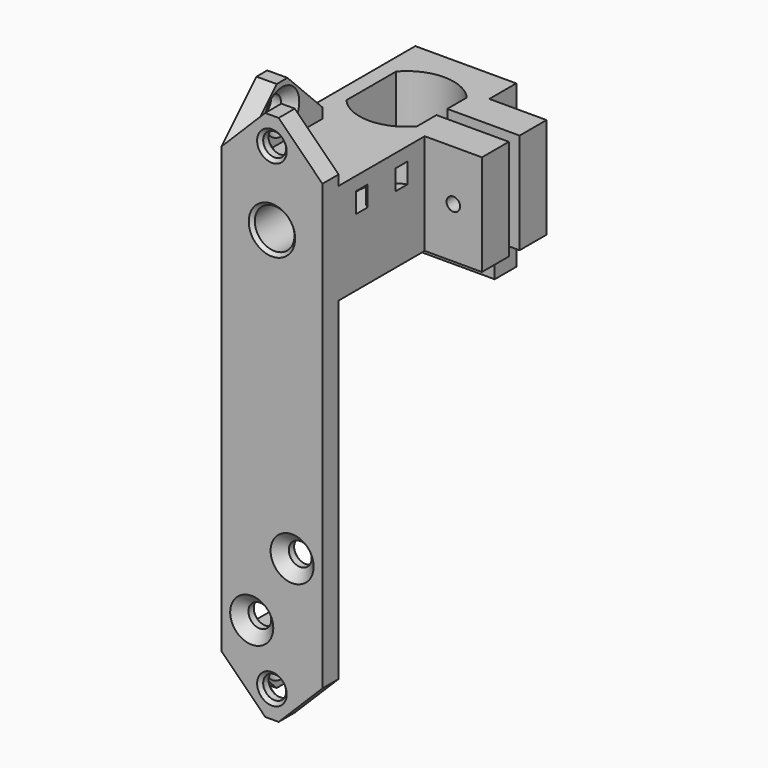
from build123d import *

# Parameters (mm, degrees)
CYLINDER102_R               = 1.7
CYLINDER102_DEPTH           = 21
BOX406008019_W              = 15
BOX406008019_H              = 3
BOX406008019_DEPTH          = 8
CHAMFER011_SIZE             = 6.5
CHAMFER012_SIZE             = 1.5
CYLINDER103_R               = 1.7
CYLINDER103_DEPTH           = 21
BOX406008020_W              = 15
BOX406008020_H              = 3
BOX406008020_DEPTH          = 8
CHAMFER013_SIZE             = 6.5
CHAMFER014_SIZE             = 1.5
CYLINDER101_R               = 2.95
CYLINDER101_DEPTH           = 20
CYLINDER100_R               = 1.4
CYLINDER100_DEPTH           = 28
CYLINDER099_R               = 3
CYLINDER099_DEPTH           = 3
CYLINDER098_R               = 5
CYLINDER098_DEPTH           = 3
CYLINDER090_R               = 1.2
CYLINDER090_DEPTH           = 13
CYLINDER091_R               = 1
CYLINDER091_DEPTH           = 12
CYLINDER091_ROLL_ANGLE      = 89.999919
CYLINDER091_PITCH_ANGLE     = -3.6e-05
CYLINDER091_PLACEMENT_ANGLE = 179.999964
CYLINDER069_R               = 2.2
CYLINDER069_DEPTH           = 12
CYLINDER069_ROLL_ANGLE      = 89.999919
CYLINDER069_PITCH_ANGLE     = -3.6e-05
CYLINDER069_PLACEMENT_ANGLE = 179.999964
CYLINDER068_R               = 1.2
CYLINDER068_DEPTH           = 12
CYLINDER068_ROLL_ANGLE      = 89.999919
CYLINDER068_PITCH_ANGLE     = -3.6e-05
CYLINDER068_PLACEMENT_ANGLE = 179.999964
BOX406016_W                 = 49
BOX406016_H                 = 2
BOX406016_DEPTH             = 32
BOX406008016_W              = 9
BOX406008016_H              = 12
BOX406008016_DEPTH          = 15
BOX406017_W                 = 16
BOX406017_H                 = 10.5
BOX406017_DEPTH             = 28
CYLINDER067_R               = 7
CYLINDER067_DEPTH           = 26
COMMON004_PLACEMENT_ANGLE   = 90
BOX406008015_W              = 15
BOX406008015_H              = 31
BOX406008015_DEPTH          = 15
BOX406008017_W              = 15
BOX406008017_H              = 4
BOX406008017_DEPTH          = 24
CYLINDER096_R               = 1.7
CYLINDER096_DEPTH           = 21
BOX_W                       = 15
BOX_H                       = 3
BOX_DEPTH                   = 8
CYLINDER097_R               = 1.7
CYLINDER097_DEPTH           = 21
BOX406008018_W              = 15
BOX406008018_H              = 3
BOX406008018_DEPTH          = 8
CHAMFER005_SIZE             = 1.5
CYLINDER093_R               = 1.7
CYLINDER093_DEPTH           = 21
CYLINDER092_R               = 1.7
CYLINDER092_DEPTH           = 21
BOX406008014_W              = 15
BOX406008014_H              = 3
BOX406008014_DEPTH          = 63
CHAMFER006_SIZE             = 1.5
CHAMFER007_SIZE             = 6.5
CHAMFER009_SIZE             = 0.5
CHAMFER010_SIZE             = 0.5
CHAMFER015_SIZE             = 0.5
CHAMFER016_SIZE             = 0.5


with BuildPart() as cylinder102:
    # Cylinder102 → Cylinder102 (new body)
    with BuildSketch(Plane(origin=(-15, -17.5, -22), x_dir=(0, 0, -1), z_dir=(1, 0, 0))):
        Circle(CYLINDER102_R)
    extrude(amount=CYLINDER102_DEPTH)


with BuildPart() as chamfer012_mount_hole:
    # Box406008019 → Box406008019 (new body)
    with BuildSketch(Plane(origin=(-4.5, -25, -26), x_dir=(0, 1, 0), z_dir=(0, 0, 1))):
        with Locations((7.5, 1.5)):
            Rectangle(BOX406008019_W, BOX406008019_H)
    extrude(amount=BOX406008019_DEPTH)

    # Cut083: cut Cylinder102
    add(cylinder102.part, mode=Mode.SUBTRACT)

    # Chamfer011
    chamfer011_edges = [chamfer012_mount_hole.edges().sort_by_distance(p)[0] for p in [
        (-6, -25, -26),
        (-6, -10, -26),
    ]]
    chamfer(chamfer011_edges, length=CHAMFER011_SIZE)

    # Chamfer012
    chamfer012_edges = [chamfer012_mount_hole.edges().sort_by_distance(p)[0] for p in [
        (-4.5, -17.5, -20.3),
    ]]
    chamfer(chamfer012_edges, length=CHAMFER012_SIZE)


with BuildPart() as cylinder103:
    # Cylinder103 → Cylinder103 (new body)
    with BuildSketch(Plane(origin=(-15, -17.5, -22), x_dir=(0, 0, -1), z_dir=(1, 0, 0))):
        Circle(CYLINDER103_R)
    extrude(amount=CYLINDER103_DEPTH)


with BuildPart() as chamfer012_mount_hole001:
    # Box406008020 → Box406008020 (new body)
    with BuildSketch(Plane(origin=(-4.5, -25, -26), x_dir=(0, 1, 0), z_dir=(0, 0, 1))):
        with Locations((7.5, 1.5)):
            Rectangle(BOX406008020_W, BOX406008020_H)
    extrude(amount=BOX406008020_DEPTH)

    # Cut084: cut Cylinder103
    add(cylinder103.part, mode=Mode.SUBTRACT)

    # Chamfer013
    chamfer013_edges = [chamfer012_mount_hole001.edges().sort_by_distance(p)[0] for p in [
        (-6, -25, -26),
        (-6, -10, -26),
    ]]
    chamfer(chamfer013_edges, length=CHAMFER013_SIZE)

    # Chamfer014
    chamfer014_edges = [chamfer012_mount_hole001.edges().sort_by_distance(p)[0] for p in [
        (-4.5, -17.5, -20.3),
    ]]
    chamfer(chamfer014_edges, length=CHAMFER014_SIZE)


with BuildPart() as fusion103077013004017019:
    # Part__Mirroring001: instance of Chamfer012 Mount Hole001
    add(chamfer012_mount_hole001.part.mirror(Plane(origin=(0, 0, 0), x_dir=(0, 1, 0), z_dir=(0, 0, 1))))


with BuildPart() as fusion103077013004017019_1:
    # Part__Mirroring001 placement: moved
    add(fusion103077013004017019.part.moved(Location((0, 0, 27))))

    # Fusion103077013004017019: union Chamfer012 Mount Hole
    add(chamfer012_mount_hole.part)


with BuildPart() as cylinder101:
    # Cylinder101 → Cylinder101 (new body)
    with BuildSketch(Plane(origin=(0, -11, 38), x_dir=(1, 0, 0), z_dir=(0, -1, 0))):
        Circle(CYLINDER101_R)
    extrude(amount=CYLINDER101_DEPTH)


with BuildPart() as fusion103077013004017018:
    # Cylinder100 → Cylinder100 (new body)
    with BuildSketch(Plane(origin=(0, 0, 38), x_dir=(1, 0, 0), z_dir=(0, -1, 0))):
        Circle(CYLINDER100_R)
    extrude(amount=CYLINDER100_DEPTH)

    # Fusion103077013004017018: union Cylinder101
    add(cylinder101.part)


with BuildPart() as cylinder099:
    # Cylinder099 → Cylinder099 (new body)
    with BuildSketch(Plane(origin=(-9, -9, 36), x_dir=(1, 0, 0), z_dir=(0, 0, 1))):
        Circle(CYLINDER099_R)
    extrude(amount=CYLINDER099_DEPTH)


with BuildPart() as cable_tie_hole:
    # Cylinder098 → Cylinder098 (new body)
    with BuildSketch(Plane(origin=(-9, -9, 36), x_dir=(1, 0, 0), z_dir=(0, 0, 1))):
        Circle(CYLINDER098_R)
    extrude(amount=CYLINDER098_DEPTH)

    # Cut081: cut Cylinder099
    add(cylinder099.part, mode=Mode.SUBTRACT)


with BuildPart() as cable_tie_hole_1:
    # Cut081 placement: moved
    add(cable_tie_hole.part.moved(Location((18, -5, 4))))


with BuildPart() as cylinder084:
    # Cylinder090 → Cylinder090 (new body)
    with BuildSketch(Plane(origin=(0, 16, 35.8), x_dir=(1, 0, 0), z_dir=(0, -1, 0))):
        Circle(CYLINDER090_R)
    extrude(amount=CYLINDER090_DEPTH)


with BuildPart() as cylinder091:
    # Cylinder091 → Cylinder091 (new body)
    with BuildSketch(Plane.XY):
        Circle(CYLINDER091_R)
    extrude(amount=CYLINDER091_DEPTH)


with BuildPart() as cylinder091_1:
    # Cylinder091 roll: moved
    add(cylinder091.part.rotate(Axis((0, 0, 0), (1, 0, 0)), CYLINDER091_ROLL_ANGLE))


with BuildPart() as cylinder091_2:
    # Cylinder091 pitch: moved
    add(cylinder091_1.part.rotate(Axis((0, 0, 0), (0, 1, 0)), CYLINDER091_PITCH_ANGLE))


with BuildPart() as cylinder091_3:
    # Cylinder091 placement: moved
    add(cylinder091_2.part.moved(Location((11.75, -12, 42.5))).rotate(Axis((11.75, -12, 42.5), (0, 0, 1)), CYLINDER091_PLACEMENT_ANGLE))


with BuildPart() as cylinder069:
    # Cylinder069 → Cylinder069 (new body)
    with BuildSketch(Plane.XY):
        Circle(CYLINDER069_R)
    extrude(amount=CYLINDER069_DEPTH)


with BuildPart() as cylinder069_1:
    # Cylinder069 roll: moved
    add(cylinder069.part.rotate(Axis((0, 0, 0), (1, 0, 0)), CYLINDER069_ROLL_ANGLE))


with BuildPart() as cylinder069_2:
    # Cylinder069 pitch: moved
    add(cylinder069_1.part.rotate(Axis((0, 0, 0), (0, 1, 0)), CYLINDER069_PITCH_ANGLE))


with BuildPart() as cylinder069_3:
    # Cylinder069 placement: moved
    add(cylinder069_2.part.moved(Location((11.75, 3, 42.5))).rotate(Axis((11.75, 3, 42.5), (0, 0, 1)), CYLINDER069_PLACEMENT_ANGLE))


with BuildPart() as fusion103077013004017011:
    # Cylinder068 → Cylinder068 (new body)
    with BuildSketch(Plane.XY):
        Circle(CYLINDER068_R)
    extrude(amount=CYLINDER068_DEPTH)


with BuildPart() as fusion103077013004017011_1:
    # Cylinder068 roll: moved
    add(fusion103077013004017011.part.rotate(Axis((0, 0, 0), (1, 0, 0)), CYLINDER068_ROLL_ANGLE))


with BuildPart() as fusion103077013004017011_2:
    # Cylinder068 pitch: moved
    add(fusion103077013004017011_1.part.rotate(Axis((0, 0, 0), (0, 1, 0)), CYLINDER068_PITCH_ANGLE))


with BuildPart() as fusion103077013004017011_3:
    # Cylinder068 placement: moved
    add(fusion103077013004017011_2.part.moved(Location((11.75, 0, 42.5))).rotate(Axis((11.75, 0, 42.5), (0, 0, 1)), CYLINDER068_PLACEMENT_ANGLE))

    # Fusion103077013: union Cylinder069
    add(cylinder069_3.part)

    # Fusion103077013004017011: union Cylinder091
    add(cylinder091_3.part)


with BuildPart() as clamp_slot:
    # Box406016 → Box406016 (new body)
    with BuildSketch(Plane(origin=(48.48, 1, 22), x_dir=(-1, 0, 0), z_dir=(0, 0, 1))):
        with Locations((24.5, 1)):
            Rectangle(BOX406016_W, BOX406016_H)
    extrude(amount=BOX406016_DEPTH)


with BuildPart() as cube351:
    # Box406008016 → Box406008016 (new body)
    with BuildSketch(Plane(origin=(7, -6, 35), x_dir=(1, 0, 0), z_dir=(0, 0, 1))):
        with Locations((4.5, 6)):
            Rectangle(BOX406008016_W, BOX406008016_H)
    extrude(amount=BOX406008016_DEPTH)


with BuildPart() as gearbox001:
    # Box406017 → Box406017 (new body)
    with BuildSketch(Plane(origin=(-8, -5.25, 18), x_dir=(1, 0, 0), z_dir=(0, 0, 1))):
        with Locations((8, 5.25)):
            Rectangle(BOX406017_W, BOX406017_H)
    extrude(amount=BOX406017_DEPTH)


with BuildPart() as motor_hole:
    # Cylinder067 → Cylinder067 (new body)
    with BuildSketch(Plane.XY.offset(20)):
        Circle(CYLINDER067_R)
    extrude(amount=CYLINDER067_DEPTH)

    # Common004: intersect gearbox001
    add(gearbox001.part, mode=Mode.INTERSECT)


with BuildPart() as motor_hole_1:
    # Common004 placement: moved
    add(motor_hole.part.moved(Location((0, 0, 5))).rotate(Axis((0, 0, 5), (0, 0, 1)), COMMON004_PLACEMENT_ANGLE))


with BuildPart() as cut075:
    # Box406008015 → Box406008015 (new body)
    with BuildSketch(Plane(origin=(-7.5, -22, 35), x_dir=(1, 0, 0), z_dir=(0, 0, 1))):
        with Locations((7.5, 15.5)):
            Rectangle(BOX406008015_W, BOX406008015_H)
    extrude(amount=BOX406008015_DEPTH)

    # Cut073: cut motor-hole
    add(motor_hole_1.part, mode=Mode.SUBTRACT)

    # Fusion103077013004017010: union Cube351
    add(cube351.part)

    # Cut074: cut clamp-slot
    add(clamp_slot.part, mode=Mode.SUBTRACT)

    # Cut075: cut Fusion103077013004017011
    add(fusion103077013004017011_3.part, mode=Mode.SUBTRACT)


with BuildPart() as cut082:
    # Box406008017 → Box406008017 (new body)
    with BuildSketch(Plane(origin=(-7.5, 7, 26), x_dir=(1, 0, 0), z_dir=(0, 0, 1))):
        with Locations((7.5, 2)):
            Rectangle(BOX406008017_W, BOX406008017_H)
    extrude(amount=BOX406008017_DEPTH)

    # Fusion103077013004017012: union Cut075
    add(cut075.part)

    # Cut076: cut Cylinder084
    add(cylinder084.part, mode=Mode.SUBTRACT)


with BuildPart() as cut082_1:
    # Cut076 placement: moved
    add(cut082.part.moved(Location((0, 0, -5))))

    # Cut082: cut Cable tie Hole
    add(cable_tie_hole_1.part, mode=Mode.SUBTRACT)


with BuildPart() as cylinder096:
    # Cylinder096 → Cylinder096 (new body)
    with BuildSketch(Plane(origin=(0, -13, 49), x_dir=(1, 0, 0), z_dir=(0, -1, 0))):
        Circle(CYLINDER096_R)
    extrude(amount=CYLINDER096_DEPTH)


with BuildPart() as cut080:
    # Box → Box (new body)
    with BuildSketch(Plane(origin=(-7.5, -25, 45), x_dir=(1, 0, 0), z_dir=(0, 0, 1))):
        with Locations((7.5, 1.5)):
            Rectangle(BOX_W, BOX_H)
    extrude(amount=BOX_DEPTH)

    # Cut080: cut Cylinder096
    add(cylinder096.part, mode=Mode.SUBTRACT)


with BuildPart() as cylinder097:
    # Cylinder097 → Cylinder097 (new body)
    with BuildSketch(Plane(origin=(0, -13, -22), x_dir=(1, 0, 0), z_dir=(0, -1, 0))):
        Circle(CYLINDER097_R)
    extrude(amount=CYLINDER097_DEPTH)


with BuildPart() as chamfer005_mount_holes:
    # Box406008018 → Box406008018 (new body)
    with BuildSketch(Plane(origin=(-7.5, -25, -26), x_dir=(1, 0, 0), z_dir=(0, 0, 1))):
        with Locations((7.5, 1.5)):
            Rectangle(BOX406008018_W, BOX406008018_H)
    extrude(amount=BOX406008018_DEPTH)

    # Cut079: cut Cylinder097
    add(cylinder097.part, mode=Mode.SUBTRACT)

    # Fusion103077013004017015: union Cut080
    add(cut080.part)

    # Chamfer005
    chamfer005_edges = [chamfer005_mount_holes.edges().sort_by_distance(p)[0] for p in [
        (-1.7, -22, -22),
        (-1.7, -22, 49),
    ]]
    chamfer(chamfer005_edges, length=CHAMFER005_SIZE)


with BuildPart() as cylinder093:
    # Cylinder093 → Cylinder093 (new body)
    with BuildSketch(Plane(origin=(3, -13, -4), x_dir=(1, 0, 0), z_dir=(0, -1, 0))):
        Circle(CYLINDER093_R)
    extrude(amount=CYLINDER093_DEPTH)


with BuildPart() as fusion103077013004017013:
    # Cylinder092 → Cylinder092 (new body)
    with BuildSketch(Plane(origin=(-3, -13, -14), x_dir=(1, 0, 0), z_dir=(0, -1, 0))):
        Circle(CYLINDER092_R)
    extrude(amount=CYLINDER092_DEPTH)

    # Fusion103077013004017013: union Cylinder093
    add(cylinder093.part)


with BuildPart() as chamfer016:
    # Box406008014 → Box406008014 (new body)
    with BuildSketch(Plane(origin=(-7.5, -25, -18), x_dir=(1, 0, 0), z_dir=(0, 0, 1))):
        with Locations((7.5, 1.5)):
            Rectangle(BOX406008014_W, BOX406008014_H)
    extrude(amount=BOX406008014_DEPTH)

    # Cut077: cut Fusion103077013004017013
    add(fusion103077013004017013.part, mode=Mode.SUBTRACT)

    # Chamfer006
    chamfer006_edges = [chamfer016.edges().sort_by_distance(p)[0] for p in [
        (-4.7, -25, -14),
        (1.3, -25, -4),
    ]]
    chamfer(chamfer006_edges, length=CHAMFER006_SIZE)

    # Fusion103077013004017016: union Chamfer005 mount holes
    add(chamfer005_mount_holes.part)

    # Chamfer007
    chamfer007_edges = [chamfer016.edges().sort_by_distance(p)[0] for p in [
        (-7.5, -23.5, -26),
        (7.5, -23.5, -26),
        (7.5, -23.5, 53),
        (-7.5, -23.5, 53),
    ]]
    chamfer(chamfer007_edges, length=CHAMFER007_SIZE)

    # Fusion103077013004017017: union Cut082
    add(cut082_1.part)

    # Chamfer009
    chamfer009_edges = [chamfer016.edges().sort_by_distance(p)[0] for p in [
        (-4.7, -22, -14),
        (1.3, -22, -4),
    ]]
    chamfer(chamfer009_edges, length=CHAMFER009_SIZE)

    # Chamfer010
    chamfer010_edges = [chamfer016.edges().sort_by_distance(p)[0] for p in [
        (-1.7, -25, -22),
        (-1.7, -25, 49),
    ]]
    chamfer(chamfer010_edges, length=CHAMFER010_SIZE)

    # Cut085: cut Fusion103077013004017018
    add(fusion103077013004017018.part, mode=Mode.SUBTRACT)

    # Fusion103077013004017020: union Fusion103077013004017019
    add(fusion103077013004017019_1.part)

    # Chamfer015
    chamfer015_edges = [chamfer016.edges().sort_by_distance(p)[0] for p in [
        (-1.4, -11, 38),
    ]]
    chamfer(chamfer015_edges, length=CHAMFER015_SIZE)

    # Chamfer016
    chamfer016_edges = [chamfer016.edges().sort_by_distance(p)[0] for p in [
        (-2.95, -25, 38),
    ]]
    chamfer(chamfer016_edges, length=CHAMFER016_SIZE)


solid = chamfer016.part
